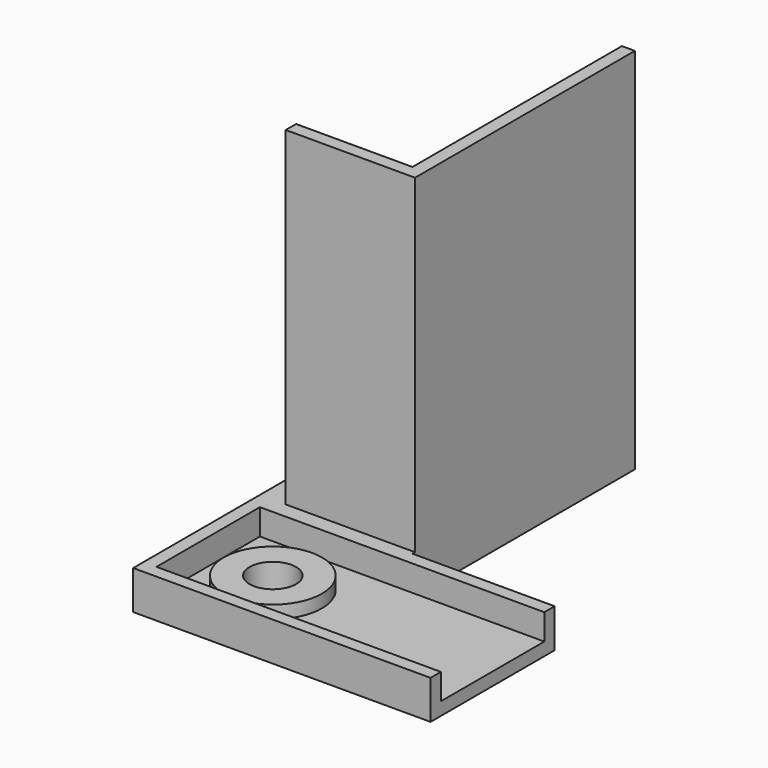
from build123d import *

# Parameters (mm, degrees)
SKETCH006_R      = 1.8
EXTRUDE004_DEPTH = 1
EXTRUDE005_DEPTH = 2
SKETCH017_R      = 3.8
SKETCH017_R_2    = 1.8
EXTRUDE014_DEPTH = 1
EXTRUDE003_DEPTH = 27.5


with BuildPart() as extrude004:
    # Sketch006 → Extrude004 (new body)
    with BuildSketch(Plane.XY.offset(10)):
        Polygon((-11, 0), (0, 0), (0, 12), (-23, 12), (-23, -21.5), (-11, -21.5), align=None)
        with Locations((-17, 6)):
            Circle(SKETCH006_R, mode=Mode.SUBTRACT)
    extrude(amount=EXTRUDE004_DEPTH)


with BuildPart() as extrude004_1:
    # Extrude004 placement: moved
    add(extrude004.part.moved(Location((0, 0, -36.5))))


with BuildPart() as extrude005:
    # Sketch007 → Extrude005 (new body)
    with BuildSketch(Plane.XY.offset(10)):
        Polygon((0, 12), (-23, 12), (-23, -21.5), (-22, -21.5), (-22, -2.25), (-13, -2.25), (-13, -21.5), (-11, -21.5), (-11, 0), (0, 0), (0, 1), (-22, 1), (-22, 11), (0, 11), align=None)
    extrude(amount=EXTRUDE005_DEPTH)


with BuildPart() as extrude005_1:
    # Extrude005 placement: moved
    add(extrude005.part.moved(Location((0, 0, -35.5))))


with BuildPart() as extrude014:
    # Sketch017 → Extrude014 (new body)
    with BuildSketch(Plane.XY.offset(10)):
        with Locations((-17, 6)):
            Circle(SKETCH017_R)
        with Locations((-17, 6)):
            Circle(SKETCH017_R_2, mode=Mode.SUBTRACT)
    extrude(amount=EXTRUDE014_DEPTH)


with BuildPart() as extrude014_1:
    # Extrude014 placement: moved
    add(extrude014.part.moved(Location((0, 0, -35.5))))


with BuildPart() as body006:
    # Sketch003 → Extrude003 (new body)
    with BuildSketch(Plane.XY):
        Polygon((-21, -0.25), (-11, -0.25), (-11, -21.5), (-12, -21.5), (-12, -1.25), (-21, -1.25), align=None)
    extrude(amount=-EXTRUDE003_DEPTH)


with BuildPart() as body006_1:
    # Extrude003 placement: moved
    add(body006.part.moved(Location((0, 0, 2))))

    # Fusion013: union Extrude004, Extrude005, Extrude014
    add(extrude004_1.part)
    add(extrude005_1.part)
    add(extrude014_1.part)


with BuildPart() as part_mirroring007:
    # Part__Mirroring007: instance of Body006
    add(body006_1.part.mirror(Plane(origin=(0, -21.5, 0), x_dir=(1, 0, 0), z_dir=(0, 1, 0))))


solid = part_mirroring007.part
